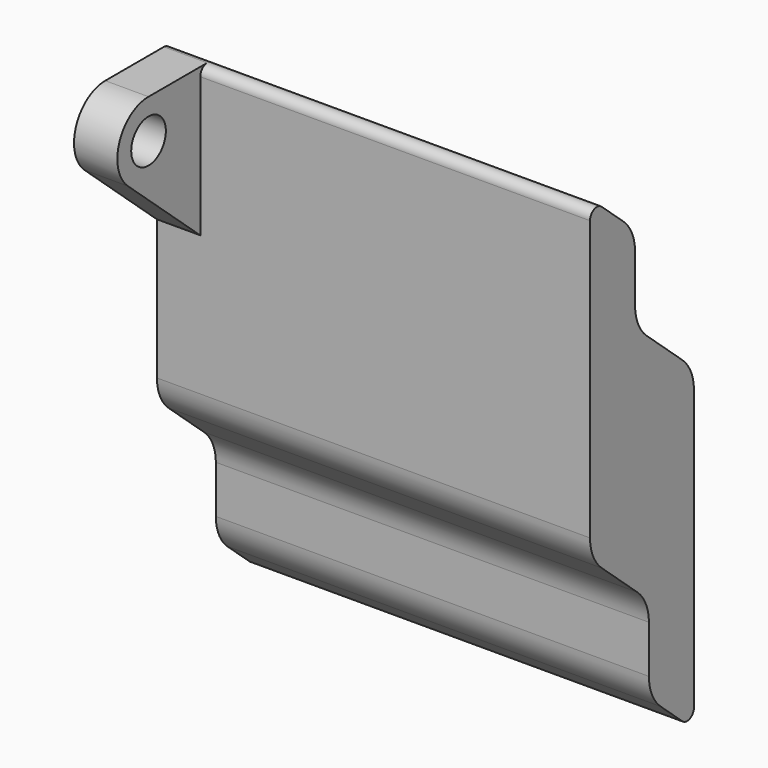
from build123d import *

# Parameters (mm, degrees)
F1_DEPTH = 25
F2_R     = 2.5
F3_DEPTH = 5


with BuildPart() as f1:
    # F0 (on Right) → F1 (new body, symmetric)
    with BuildSketch(Plane.YZ):
        with BuildLine():
            ThreePointArc((5.837004, -28.527218), (6.91049, -28.69046), (7.5, -27.778595))
            Line((7.5, -27.778595), (7.5, 4.464877))
            ThreePointArc((7.5, 4.464877), (7.059325, 6.517328), (5.814978, 8.207994))
            Line((5.814978, 8.207994), (0.685022, 12.751183))
            ThreePointArc((0.685022, 12.751183), (-0.559325, 14.441849), (-1, 16.4943))
            Line((-1, 16.4943), (-1, 21.992644))
            ThreePointArc((-1, 21.992644), (-1.440675, 24.045095), (-2.685022, 25.735761))
            Line((-2.685022, 25.735761), (-5.837004, 28.527218))
            ThreePointArc((-5.837004, 28.527218), (-6.91049, 28.69046), (-7.5, 27.778595))
            Line((-7.5, 27.778595), (-7.5, -4.464877))
            ThreePointArc((-7.5, -4.464877), (-7.059325, -6.517328), (-5.814978, -8.207994))
            Line((-5.814978, -8.207994), (-0.685022, -12.751183))
            ThreePointArc((-0.685022, -12.751183), (0.559325, -14.441849), (1, -16.4943))
            Line((1, -16.4943), (1, -21.992644))
            ThreePointArc((1, -21.992644), (1.440675, -24.045095), (2.685022, -25.735761))
            Line((2.685022, -25.735761), (5.837004, -28.527218))
        make_face()
    extrude(amount=F1_DEPTH, both=True)

    # F2 (on face) → F3 (join)
    with BuildSketch(Plane(origin=(-25, 0, 0), x_dir=(0, -1, 0), z_dir=(-1, 0, 0))):
        with BuildLine():
            Line((7.5, 11.656859), (17.947974, 20.90979))
            ThreePointArc((17.947974, 20.90979), (19.172202, 25.87396), (14.964494, 28.778595))
            Line((14.964494, 28.778595), (6.5, 28.778595))
            ThreePointArc((6.5, 28.778595), (7.207107, 28.485702), (7.5, 27.778595))
            Line((7.5, 27.778595), (7.5, 11.656859))
        make_face()
        with Locations((14.964494, 24.278595)):
            Circle(F2_R, mode=Mode.SUBTRACT)
    extrude(amount=-F3_DEPTH)


solid = f1.part
